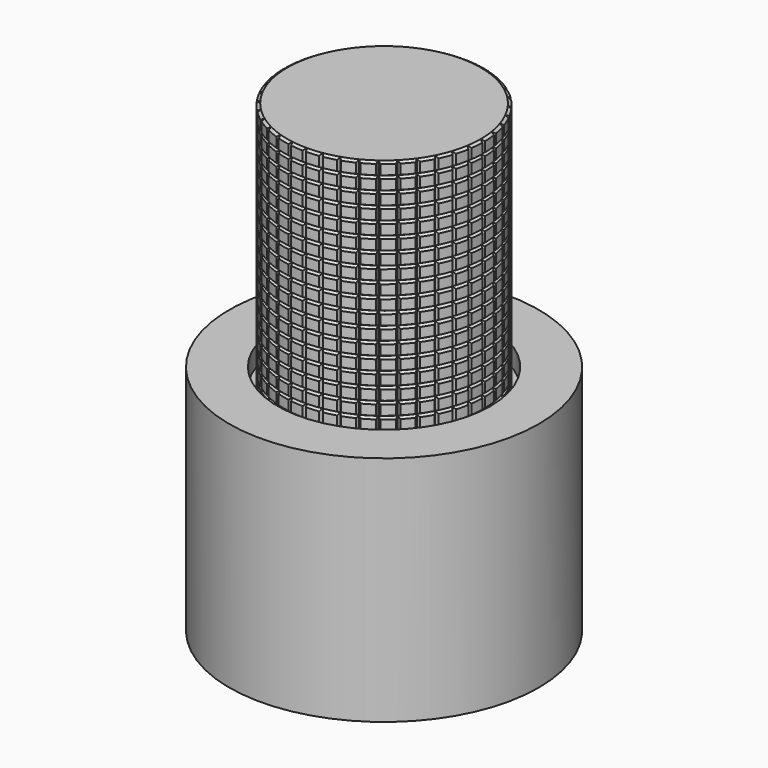
from build123d import *

# Parameters (mm, degrees)
SKETCH_R            = 8
PAD_DEPTH           = 12
SKETCH006_R         = 5.5
POCKET002_DEPTH     = 1
POCKET003_DEPTH     = 11.001
SKETCH008_R         = 6
POCKET004_DEPTH     = 5
SKETCH009_R         = 6
SKETCH009_R_2       = 4
POCKET005_DEPTH     = 4
SKETCH001_R         = 5.15
PAD001_DEPTH        = 13
POCKET006_DEPTH     = 11
SKETCH011_R         = 3.5
SKETCH011_R_2       = 2.75
POCKET007_DEPTH     = 11
POCKET008_DEPTH     = 52.048663
POLARPATTERN_COUNT  = 40
LINEARPATTERN_COUNT = 20
LINEARPATTERN_PITCH = 0.684211
SKETCH002_R         = 3
PAD002_DEPTH        = 5
SKETCH003_W         = 15.685142
SKETCH003_H         = 2
POCKET_DEPTH        = 4
SKETCH004_R         = 1.75
PAD003_DEPTH        = 10
SKETCH005_W         = 8.687401
SKETCH005_H         = 3.263626
POCKET001_DEPTH     = 4
CHAMFER_SIZE        = 0.5


with BuildPart() as bottom:
    # Sketch → Pad (new body)
    with BuildSketch(Plane.XY):
        Circle(SKETCH_R)
    extrude(amount=PAD_DEPTH)

    # Sketch006 (on Face3 of Pad) → Pocket002 (cut)
    with BuildSketch(Plane.XY.offset(12)):
        Circle(SKETCH006_R)
    extrude(amount=-POCKET002_DEPTH, mode=Mode.SUBTRACT)

    # Sketch007 (on Face5 of Pocket002) → Pocket003 (cut, through all)
    with BuildSketch(Plane.XY.offset(11)):
        with BuildLine():
            Line((-2, 1), (-2, -1))
            Line((-2, -1), (-2.828427, -1))
            ThreePointArc((-2.828427, -1), (0, -3), (2.828427, -1))
            Line((2, -1), (2.828427, -1))
            Line((2, 1), (2, -1))
            Line((2, 1), (2.828427, 1))
            ThreePointArc((2.828427, 1), (0, 3), (-2.828427, 1))
            Line((-2, 1), (-2.828427, 1))
        make_face()
    extrude(amount=-POCKET003_DEPTH, mode=Mode.SUBTRACT)

    # Sketch008 (on Face2 of Pocket003) → Pocket004 (cut)
    with BuildSketch(Plane(origin=(0, 0, 0), x_dir=(1, 0, 0), z_dir=(0, 0, -1))):
        Circle(SKETCH008_R)
    extrude(amount=-POCKET004_DEPTH, mode=Mode.SUBTRACT)

    # Sketch009 (on Face6 of Pocket004) → Pocket005 (cut)
    with BuildSketch(Plane(origin=(0, 0, 5), x_dir=(1, 0, 0), z_dir=(0, 0, -1))):
        Circle(SKETCH009_R)
        Circle(SKETCH009_R_2, mode=Mode.SUBTRACT)
    extrude(amount=-POCKET005_DEPTH, mode=Mode.SUBTRACT)


with BuildPart() as bottom_1:
    # Body placement: moved
    add(bottom.part.moved(Location((0, 0, -4))))


with BuildPart() as top:
    # Sketch001 → Pad001 (new body)
    with BuildSketch(Plane.XY):
        Circle(SKETCH001_R)
    extrude(amount=PAD001_DEPTH)

    # Sketch010 (on Face2 of Pad001) → Pocket006 (cut)
    with BuildSketch(Plane(origin=(0, 0, 0), x_dir=(1, 0, 0), z_dir=(0, 0, -1))):
        with BuildLine():
            Line((-1.581139, -0.75), (1.581139, -0.75))
            ThreePointArc((1.581139, -0.75), (0, 1.75), (-1.581139, -0.75))
        make_face()
    extrude(amount=-POCKET006_DEPTH, mode=Mode.SUBTRACT)

    # Sketch011 (on Face2 of Pocket006) → Pocket007 (cut)
    with BuildSketch(Plane(origin=(0, 0, 0), x_dir=(1, 0, 0), z_dir=(0, 0, -1))):
        Circle(SKETCH011_R)
        Circle(SKETCH011_R_2, mode=Mode.SUBTRACT)
    extrude(amount=-POCKET007_DEPTH, mode=Mode.SUBTRACT)

    # Sketch012 → Pocket008 (cut, through all)
    with BuildSketch(Plane.XY):
        Polygon((0, 5), (0.5, 5.866025), (-0.5, 5.866025), align=None)
    pocket008 = extrude(amount=POCKET008_DEPTH, mode=Mode.SUBTRACT)

    # PolarPattern: Pocket008 ×40 about axis
    polarpattern_axis = Axis((0, 0, 0), (0, 0, 1))
    for i in range(1, POLARPATTERN_COUNT):
        add(pocket008.rotate(polarpattern_axis, i * 360 / POLARPATTERN_COUNT), mode=Mode.SUBTRACT)

    # SubtractivePipe: sweep along a path in Sketch013
    with BuildLine(Plane.XY) as subtractivepipe_path:
        CenterArc((0, 0), 5, 0, 360)
    # Sketch014 → SubtractivePipe (sweep, cut)
    with BuildSketch(Plane.YZ):
        Polygon((5, 0), (5.866025, -0.5), (5.866025, 0.5), align=None)
    subtractivepipe = sweep(path=subtractivepipe_path.line, mode=Mode.SUBTRACT)

    # LinearPattern: SubtractivePipe ×20
    with Locations(*[(0, 0, i * LINEARPATTERN_PITCH) for i in range(1, LINEARPATTERN_COUNT)]):
        add(subtractivepipe, mode=Mode.SUBTRACT)


with BuildPart() as top_1:
    # Body001 placement: moved
    add(top.part.moved(Location((0, 0, 7))))


with BuildPart() as shaft:
    # Sketch002 → Pad002 (new body)
    with BuildSketch(Plane(origin=(0, 0, 0), x_dir=(0, 1, 0), z_dir=(0, 0, 1))):
        Circle(SKETCH002_R)
    extrude(amount=PAD002_DEPTH)

    # Sketch003 → Pocket (cut)
    with BuildSketch(Plane.XY.offset(5)):
        Rectangle(SKETCH003_W, SKETCH003_H)
    extrude(amount=-POCKET_DEPTH, mode=Mode.SUBTRACT)

    # Sketch004 → Pad003 (join)
    with BuildSketch(Plane(origin=(0, 0, 0), x_dir=(0, 1, 0), z_dir=(0, 0, 1))):
        Circle(SKETCH004_R)
    extrude(amount=PAD003_DEPTH)

    # Sketch005 → Pocket001 (cut)
    with BuildSketch(Plane.XY.offset(10)):
        with Locations((-0.081454, 2.331813)):
            Rectangle(SKETCH005_W, SKETCH005_H)
    extrude(amount=-POCKET001_DEPTH, mode=Mode.SUBTRACT)

    # Chamfer
    chamfer_edges = [shaft.edges().sort_by_distance(p)[0] for p in [
        (0, -1.75, 10),
        (0, -3, 5),
        (-1.732051, 2.44949, 5),
        (1.732051, 2.44949, 5),
    ]]
    chamfer(chamfer_edges, length=CHAMFER_SIZE)


solid = Compound([bottom_1.part, top_1.part, shaft.part])
